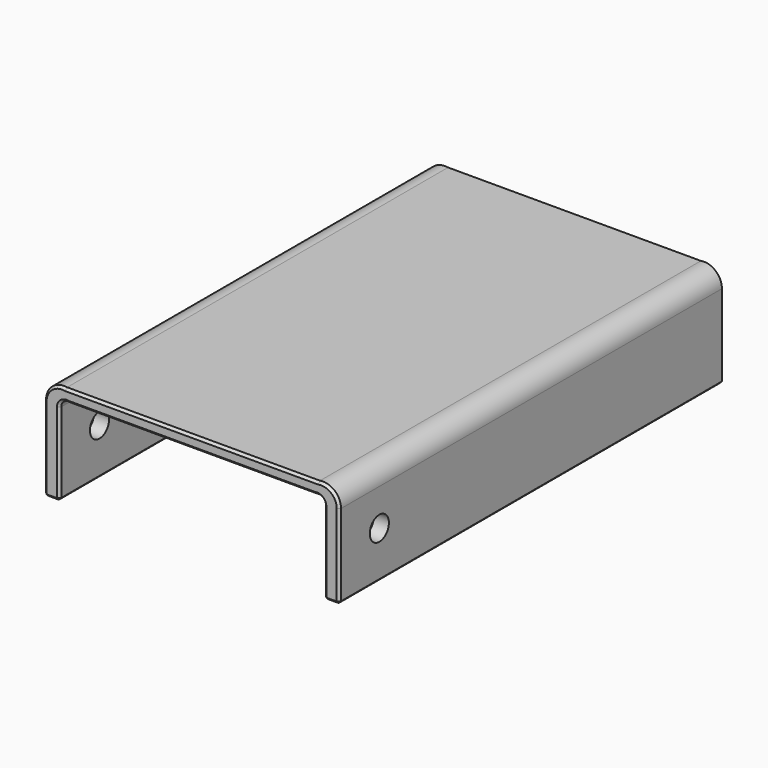
from build123d import *

# Parameters (mm, degrees)
F1_DEPTH = 200
F2_SIZE  = 1
F3_R     = 5
F4_DEPTH = 123.2975


with BuildPart() as f1:
    # F0 (on Front) → F1 (new body)
    with BuildSketch(Plane.XZ):
        with BuildLine():
            Line((56.323145, 42.502471), (3.481794, 42.502471))
            Line((3.481794, 42.502471), (-49.359557, 42.502471))
            ThreePointArc((-49.359557, 42.502471), (-55.484592, 40.872204), (-58.166456, 35.129257))
            Line((-58.166456, 35.129257), (-58.166456, 0))
            Line((-58.166456, 0), (-51.817301, 0))
            Line((-51.817301, 0), (-51.817301, 34.510728))
            ThreePointArc((-51.817301, 34.510728), (-50.675188, 36.845939), (-48.130694, 37.378091))
            Line((-48.130694, 37.378091), (3.481794, 37.378091))
            Line((3.481794, 37.378091), (55.094283, 37.378091))
            ThreePointArc((55.094283, 37.378091), (57.638777, 36.845939), (58.78089, 34.510728))
            Line((58.78089, 34.510728), (58.78089, 0))
            Line((58.78089, 0), (65.130044, 0))
            Line((65.130044, 0), (65.130044, 35.129257))
            ThreePointArc((65.130044, 35.129257), (62.448181, 40.872204), (56.323145, 42.502471))
        make_face()
    extrude(amount=F1_DEPTH)

    # F2
    f2_edges = [f1.edges().sort_by_distance(p)[0] for p in [
        (3.481794, -200, 42.502471),
        (3.481794, -200, 37.378091),
        (-55.484592, -200, 40.872204),
        (-50.675188, -200, 36.845939),
        (-51.817301, -200, 17.255364),
        (-58.166456, -200, 17.564629),
        (-54.991878, -200, 0),
        (58.78089, -200, 17.255364),
        (57.638777, -200, 36.845939),
        (62.448181, -200, 40.872204),
        (65.130044, -200, 17.564629),
        (61.955467, -200, 0),
        (58.78089, -100, 0),
        (65.130044, -100, 0),
        (-51.817301, -100, 0),
        (-58.166456, -100, 0),
    ]]
    chamfer(f2_edges, length=F2_SIZE)

    # F3 (on face) → F4 (cut, through all)
    with BuildSketch(Plane(origin=(-58.166456, 0, 0), x_dir=(0, -1, 0), z_dir=(-1, 0, 0))):
        with Locations((179, 19.727895)):
            Circle(F3_R)
    extrude(amount=-F4_DEPTH, mode=Mode.SUBTRACT)


solid = f1.part
